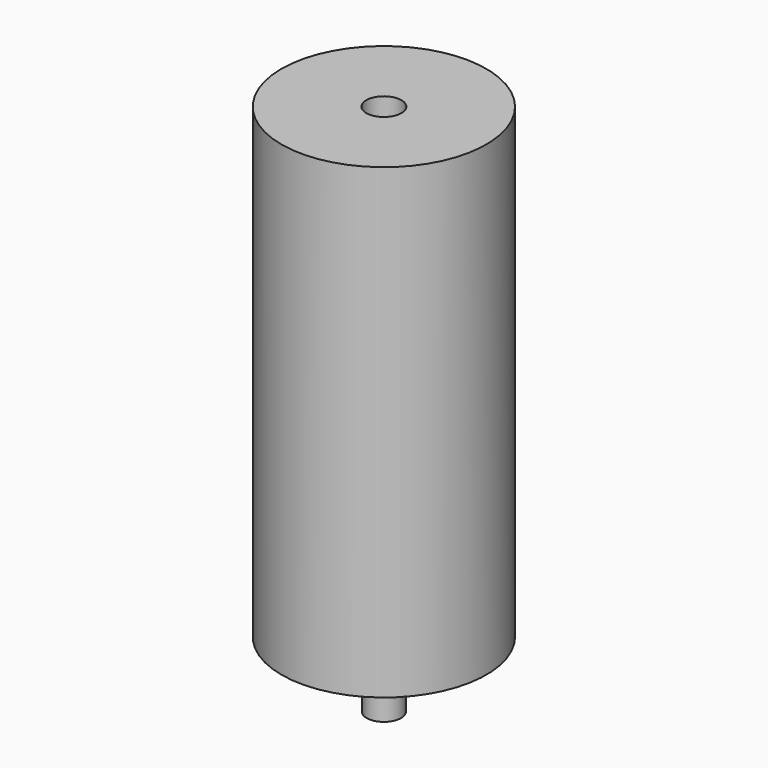
from build123d import *

# Parameters (mm, degrees)
F0_W     = 35.56
F0_H     = 162.057699
F2_R     = 5.969
F3_DEPTH = 22.86
F4_R     = 6.096
F5_DEPTH = 25.4


with BuildPart() as f1:
    # F0 (on Front) → F1 (revolve)
    with BuildSketch(Plane.XZ):
        with Locations((-17.78, 5.673615)):
            Rectangle(F0_W, F0_H)
    revolve(axis=Axis((0, 0, 4.235234), (0, 0, -1)))

    # F2 (on face) → F3 (join)
    with BuildSketch(Plane(origin=(0, 0, -75.355234), x_dir=(1, 0, 0), z_dir=(0, 0, -1))):
        Circle(F2_R)
    extrude(amount=F3_DEPTH)

    # F4 (on face) → F5 (cut)
    with BuildSketch(Plane.XY.offset(86.702465)):
        Circle(F4_R)
    extrude(amount=-F5_DEPTH, mode=Mode.SUBTRACT)


solid = f1.part
